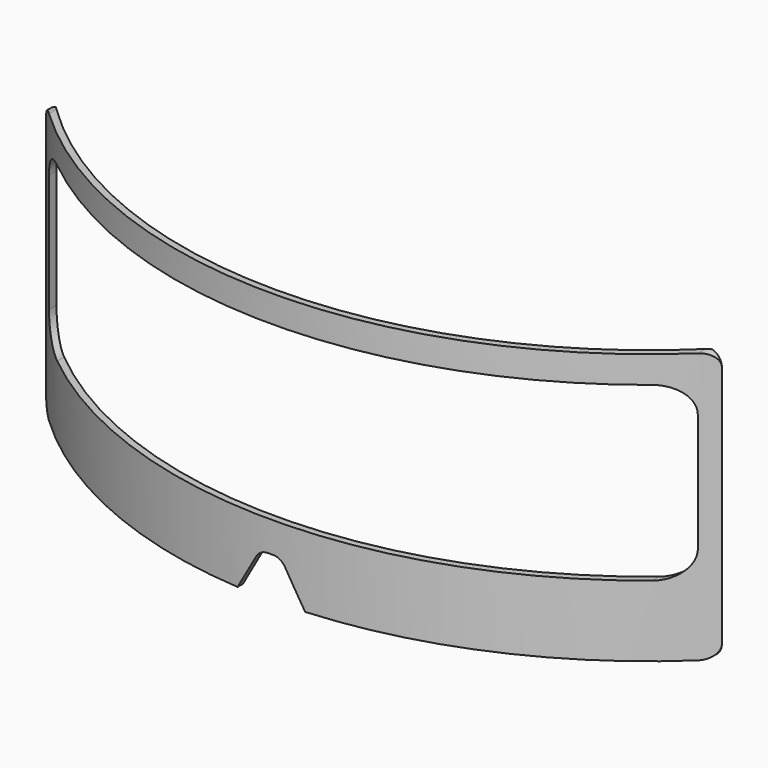
from build123d import *

# Parameters (mm, degrees)
F1_DEPTH = 63.5
F3_DEPTH = 127


with BuildPart() as f1:
    # F0 (on Top) → F1 (new body)
    with BuildSketch(Plane.XY):
        with BuildLine():
            Line((-61.709456, -62.217039), (-63.5, -62.217039))
            ThreePointArc((-63.5, -62.217039), (0, -88.9), (63.5, -62.217039))
            Line((63.5, -62.217039), (61.709456, -62.217039))
            ThreePointArc((61.709456, -62.217039), (0, -87.63), (-61.709456, -62.217039))
        make_face()
    extrude(amount=F1_DEPTH)

    # F2 (on Front) → F3 (cut)
    with BuildSketch(Plane.XZ):
        with BuildLine():
            ThreePointArc((-63.5, 48.26), (-62.756051, 50.056051), (-60.96, 50.8))
            Line((-60.96, 50.8), (60.96, 50.8))
            ThreePointArc((60.96, 50.8), (62.756051, 50.056051), (63.5, 48.26))
            Line((63.5, 48.26), (63.5, 63.5))
            Line((63.5, 63.5), (-63.5, 63.5))
            Line((-63.5, 63.5), (-63.5, 48.26))
        make_face()
        with BuildLine():
            Line((55.88, 45.72), (-55.88, 45.72))
            ThreePointArc((-55.88, 45.72), (-59.472102, 44.232102), (-60.96, 40.64))
            Line((-60.96, 40.64), (-60.96, 18.415))
            ThreePointArc((-60.96, 18.415), (-59.472102, 14.822898), (-55.88, 13.335))
            Line((-55.88, 13.335), (55.88, 13.335))
            ThreePointArc((55.88, 13.335), (59.472102, 14.822898), (60.96, 18.415))
            Line((60.96, 18.415), (60.96, 40.64))
            ThreePointArc((60.96, 40.64), (59.472102, 44.232102), (55.88, 45.72))
        make_face()
        with BuildLine():
            Line((63.5, 0), (63.5, 2.54))
            ThreePointArc((63.5, 2.54), (62.756051, 0.743949), (60.96, 0))
            Line((60.96, 0), (63.5, 0))
        make_face()
        with BuildLine():
            Line((-2.683826, 6.35), (-6.35, 0))
            Line((-6.35, 0), (6.35, 0))
            Line((6.35, 0), (2.683826, 6.35))
            ThreePointArc((2.683826, 6.35), (1.754121, 7.279705), (0.484121, 7.62))
            Line((0.484121, 7.62), (-0.484121, 7.62))
            ThreePointArc((-0.484121, 7.62), (-1.754121, 7.279705), (-2.683826, 6.35))
        make_face()
        with BuildLine():
            ThreePointArc((-60.96, 0), (-62.756051, 0.743949), (-63.5, 2.54))
            Line((-63.5, 2.54), (-63.5, 0))
            Line((-63.5, 0), (-60.96, 0))
        make_face()
    extrude(amount=F3_DEPTH, mode=Mode.SUBTRACT)


solid = f1.part
